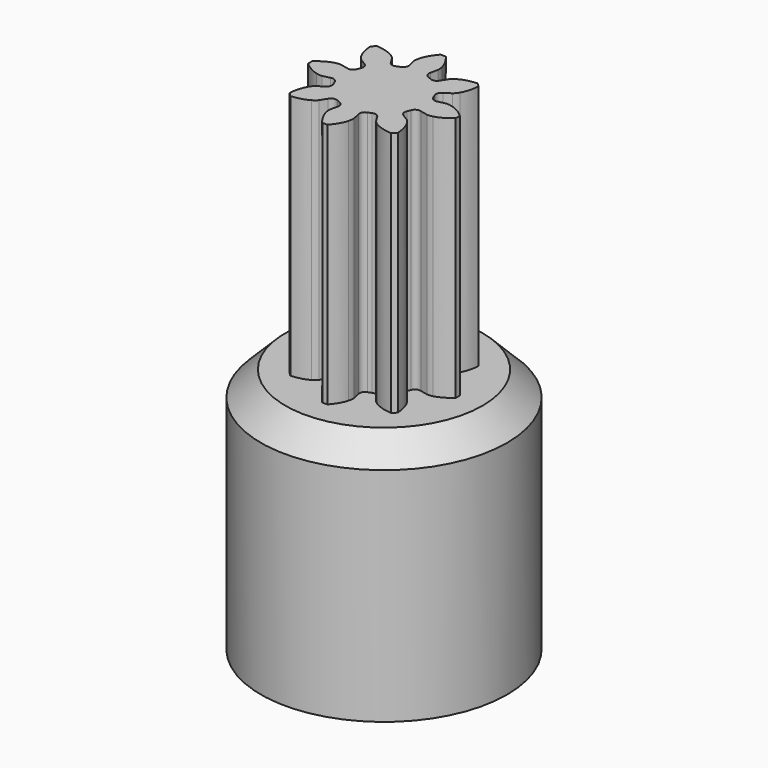
from build123d import *

# Parameters (mm, degrees)
PAD_DEPTH    = 10
SKETCH_R     = 5
PAD001_DEPTH = 10
SKETCH001_R  = 1.65
POCKET_DEPTH = 8
SKETCH002_W  = 2.791454
SKETCH002_H  = 0.639378
PAD002_DEPTH = 8
CHAMFER_SIZE = 1


with BuildPart() as part:
    # InvoluteGear → Pad (new body)
    with BuildSketch(Plane.XY):
        with BuildLine():
            Line((1.830107, -0.421419), (2.130099, -0.489763))
            add(Edge.make_bspline(
                [(2.130099, -0.489763), (2.15653, -0.493189), (2.235461, -0.498412), (2.370333, -0.46428)],
                knots=[0, 0, 0, 0, 1, 1, 1, 1], degree=3))
            add(Edge.make_bspline(
                [(2.370333, -0.46428), (2.529198, -0.422079), (2.750451, -0.325251), (2.99948, -0.107676)],
                knots=[0, 0, 0, 0, 1, 1, 1, 1], degree=3))
            ThreePointArc((2.99948, -0.107676), (3.000707, 0.000386), (2.99804, 0.108423))
            add(Edge.make_bspline(
                [(2.99804, 0.108423), (2.750451, 0.325251), (2.529198, 0.422079), (2.370333, 0.46428)],
                knots=[0, 0, 0, 0, 1, 1, 1, 1], degree=3))
            add(Edge.make_bspline(
                [(2.370333, 0.46428), (2.235461, 0.498412), (2.15653, 0.493189), (2.130099, 0.489763)],
                knots=[0, 0, 0, 0, 1, 1, 1, 1], degree=3))
            Line((2.130099, 0.489763), (1.830107, 0.421419))
            ThreePointArc((1.830107, 0.421419), (1.663196, 0.436353), (1.551577, 0.561345))
            ThreePointArc((1.551577, 0.561345), (1.524401, 0.631428), (1.494062, 0.7002))
            ThreePointArc((1.494062, 0.7002), (1.484605, 0.86751), (1.592069, 0.996093))
            Line((1.592069, 0.996093), (1.852522, 1.159893))
            add(Edge.make_bspline(
                [(1.852522, 1.159893), (1.873635, 1.17616), (1.93314, 1.228279), (2.004375, 1.347783)],
                knots=[0, 0, 0, 0, 1, 1, 1, 1], degree=3))
            add(Edge.make_bspline(
                [(2.004375, 1.347783), (2.086868, 1.489958), (2.17485, 1.714876), (2.197091, 2.044814)],
                knots=[0, 0, 0, 0, 1, 1, 1, 1], degree=3))
            ThreePointArc((2.197091, 2.044814), (2.121547, 2.122093), (2.043268, 2.196601))
            add(Edge.make_bspline(
                [(2.043268, 2.196601), (1.714876, 2.17485), (1.489958, 2.086868), (1.347783, 2.004375)],
                knots=[0, 0, 0, 0, 1, 1, 1, 1], degree=3))
            add(Edge.make_bspline(
                [(1.347783, 2.004375), (1.228279, 1.93314), (1.17616, 1.873635), (1.159893, 1.852522)],
                knots=[0, 0, 0, 0, 1, 1, 1, 1], degree=3))
            Line((1.159893, 1.852522), (0.996093, 1.592069))
            ThreePointArc((0.996093, 1.592069), (0.86751, 1.484605), (0.7002, 1.494062))
            ThreePointArc((0.7002, 1.494062), (0.631428, 1.524401), (0.561345, 1.551577))
            ThreePointArc((0.561345, 1.551577), (0.436353, 1.663196), (0.421419, 1.830107))
            Line((0.421419, 1.830107), (0.489763, 2.130099))
            add(Edge.make_bspline(
                [(0.489763, 2.130099), (0.493189, 2.15653), (0.498412, 2.235461), (0.46428, 2.370333)],
                knots=[0, 0, 0, 0, 1, 1, 1, 1], degree=3))
            add(Edge.make_bspline(
                [(0.46428, 2.370333), (0.422079, 2.529198), (0.325251, 2.750451), (0.107676, 2.99948)],
                knots=[0, 0, 0, 0, 1, 1, 1, 1], degree=3))
            ThreePointArc((0.107676, 2.99948), (-0.000386, 3.000707), (-0.108423, 2.99804))
            add(Edge.make_bspline(
                [(-0.108423, 2.99804), (-0.325251, 2.750451), (-0.422079, 2.529198), (-0.46428, 2.370333)],
                knots=[0, 0, 0, 0, 1, 1, 1, 1], degree=3))
            add(Edge.make_bspline(
                [(-0.46428, 2.370333), (-0.498412, 2.235461), (-0.493189, 2.15653), (-0.489763, 2.130099)],
                knots=[0, 0, 0, 0, 1, 1, 1, 1], degree=3))
            Line((-0.489763, 2.130099), (-0.421419, 1.830107))
            ThreePointArc((-0.421419, 1.830107), (-0.436353, 1.663196), (-0.561345, 1.551577))
            ThreePointArc((-0.561345, 1.551577), (-0.631428, 1.524401), (-0.7002, 1.494062))
            ThreePointArc((-0.7002, 1.494062), (-0.86751, 1.484605), (-0.996093, 1.592069))
            Line((-0.996093, 1.592069), (-1.159893, 1.852522))
            add(Edge.make_bspline(
                [(-1.159893, 1.852522), (-1.17616, 1.873635), (-1.228279, 1.93314), (-1.347783, 2.004375)],
                knots=[0, 0, 0, 0, 1, 1, 1, 1], degree=3))
            add(Edge.make_bspline(
                [(-1.347783, 2.004375), (-1.489958, 2.086868), (-1.714876, 2.17485), (-2.044814, 2.197091)],
                knots=[0, 0, 0, 0, 1, 1, 1, 1], degree=3))
            ThreePointArc((-2.044814, 2.197091), (-2.122093, 2.121547), (-2.196601, 2.043268))
            add(Edge.make_bspline(
                [(-2.196601, 2.043268), (-2.17485, 1.714876), (-2.086868, 1.489958), (-2.004375, 1.347783)],
                knots=[0, 0, 0, 0, 1, 1, 1, 1], degree=3))
            add(Edge.make_bspline(
                [(-2.004375, 1.347783), (-1.93314, 1.228279), (-1.873635, 1.17616), (-1.852522, 1.159893)],
                knots=[0, 0, 0, 0, 1, 1, 1, 1], degree=3))
            Line((-1.852522, 1.159893), (-1.592069, 0.996093))
            ThreePointArc((-1.592069, 0.996093), (-1.484605, 0.86751), (-1.494062, 0.7002))
            ThreePointArc((-1.494062, 0.7002), (-1.524401, 0.631428), (-1.551577, 0.561345))
            ThreePointArc((-1.551577, 0.561345), (-1.663196, 0.436353), (-1.830107, 0.421419))
            Line((-1.830107, 0.421419), (-2.130099, 0.489763))
            add(Edge.make_bspline(
                [(-2.130099, 0.489763), (-2.15653, 0.493189), (-2.235461, 0.498412), (-2.370333, 0.46428)],
                knots=[0, 0, 0, 0, 1, 1, 1, 1], degree=3))
            add(Edge.make_bspline(
                [(-2.370333, 0.46428), (-2.529198, 0.422079), (-2.750451, 0.325251), (-2.99948, 0.107676)],
                knots=[0, 0, 0, 0, 1, 1, 1, 1], degree=3))
            ThreePointArc((-2.99948, 0.107676), (-3.000707, -0.000386), (-2.99804, -0.108423))
            add(Edge.make_bspline(
                [(-2.99804, -0.108423), (-2.750451, -0.325251), (-2.529198, -0.422079), (-2.370333, -0.46428)],
                knots=[0, 0, 0, 0, 1, 1, 1, 1], degree=3))
            add(Edge.make_bspline(
                [(-2.370333, -0.46428), (-2.235461, -0.498412), (-2.15653, -0.493189), (-2.130099, -0.489763)],
                knots=[0, 0, 0, 0, 1, 1, 1, 1], degree=3))
            Line((-2.130099, -0.489763), (-1.830107, -0.421419))
            ThreePointArc((-1.830107, -0.421419), (-1.663196, -0.436353), (-1.551577, -0.561345))
            ThreePointArc((-1.551577, -0.561345), (-1.524401, -0.631428), (-1.494062, -0.7002))
            ThreePointArc((-1.494062, -0.7002), (-1.484605, -0.86751), (-1.592069, -0.996093))
            Line((-1.592069, -0.996093), (-1.852522, -1.159893))
            add(Edge.make_bspline(
                [(-1.852522, -1.159893), (-1.873635, -1.17616), (-1.93314, -1.228279), (-2.004375, -1.347783)],
                knots=[0, 0, 0, 0, 1, 1, 1, 1], degree=3))
            add(Edge.make_bspline(
                [(-2.004375, -1.347783), (-2.086868, -1.489958), (-2.17485, -1.714876), (-2.197091, -2.044814)],
                knots=[0, 0, 0, 0, 1, 1, 1, 1], degree=3))
            ThreePointArc((-2.197091, -2.044814), (-2.121547, -2.122093), (-2.043268, -2.196601))
            add(Edge.make_bspline(
                [(-2.043268, -2.196601), (-1.714876, -2.17485), (-1.489958, -2.086868), (-1.347783, -2.004375)],
                knots=[0, 0, 0, 0, 1, 1, 1, 1], degree=3))
            add(Edge.make_bspline(
                [(-1.347783, -2.004375), (-1.228279, -1.93314), (-1.17616, -1.873635), (-1.159893, -1.852522)],
                knots=[0, 0, 0, 0, 1, 1, 1, 1], degree=3))
            Line((-1.159893, -1.852522), (-0.996093, -1.592069))
            ThreePointArc((-0.996093, -1.592069), (-0.86751, -1.484605), (-0.7002, -1.494062))
            ThreePointArc((-0.7002, -1.494062), (-0.631428, -1.524401), (-0.561345, -1.551577))
            ThreePointArc((-0.561345, -1.551577), (-0.436353, -1.663196), (-0.421419, -1.830107))
            Line((-0.421419, -1.830107), (-0.489763, -2.130099))
            add(Edge.make_bspline(
                [(-0.489763, -2.130099), (-0.493189, -2.15653), (-0.498412, -2.235461), (-0.46428, -2.370333)],
                knots=[0, 0, 0, 0, 1, 1, 1, 1], degree=3))
            add(Edge.make_bspline(
                [(-0.46428, -2.370333), (-0.422079, -2.529198), (-0.325251, -2.750451), (-0.107676, -2.99948)],
                knots=[0, 0, 0, 0, 1, 1, 1, 1], degree=3))
            ThreePointArc((-0.107676, -2.99948), (0.000386, -3.000707), (0.108423, -2.99804))
            add(Edge.make_bspline(
                [(0.108423, -2.99804), (0.325251, -2.750451), (0.422079, -2.529198), (0.46428, -2.370333)],
                knots=[0, 0, 0, 0, 1, 1, 1, 1], degree=3))
            add(Edge.make_bspline(
                [(0.46428, -2.370333), (0.498412, -2.235461), (0.493189, -2.15653), (0.489763, -2.130099)],
                knots=[0, 0, 0, 0, 1, 1, 1, 1], degree=3))
            Line((0.489763, -2.130099), (0.421419, -1.830107))
            ThreePointArc((0.421419, -1.830107), (0.436353, -1.663196), (0.561345, -1.551577))
            ThreePointArc((0.561345, -1.551577), (0.631428, -1.524401), (0.7002, -1.494062))
            ThreePointArc((0.7002, -1.494062), (0.86751, -1.484605), (0.996093, -1.592069))
            Line((0.996093, -1.592069), (1.159893, -1.852522))
            add(Edge.make_bspline(
                [(1.159893, -1.852522), (1.17616, -1.873635), (1.228279, -1.93314), (1.347783, -2.004375)],
                knots=[0, 0, 0, 0, 1, 1, 1, 1], degree=3))
            add(Edge.make_bspline(
                [(1.347783, -2.004375), (1.489958, -2.086868), (1.714876, -2.17485), (2.044814, -2.197091)],
                knots=[0, 0, 0, 0, 1, 1, 1, 1], degree=3))
            ThreePointArc((2.044814, -2.197091), (2.122093, -2.121547), (2.196601, -2.043268))
            add(Edge.make_bspline(
                [(2.196601, -2.043268), (2.17485, -1.714876), (2.086868, -1.489958), (2.004375, -1.347783)],
                knots=[0, 0, 0, 0, 1, 1, 1, 1], degree=3))
            add(Edge.make_bspline(
                [(2.004375, -1.347783), (1.93314, -1.228279), (1.873635, -1.17616), (1.852522, -1.159893)],
                knots=[0, 0, 0, 0, 1, 1, 1, 1], degree=3))
            Line((1.852522, -1.159893), (1.592069, -0.996093))
            ThreePointArc((1.592069, -0.996093), (1.484605, -0.86751), (1.494062, -0.7002))
            ThreePointArc((1.494062, -0.7002), (1.524401, -0.631428), (1.551577, -0.561345))
            ThreePointArc((1.551577, -0.561345), (1.663196, -0.436353), (1.830107, -0.421419))
        make_face()
    extrude(amount=PAD_DEPTH)

    # Sketch (on Face81 of Pad) → Pad001 (join)
    with BuildSketch(Plane(origin=(0, 0, 0), x_dir=(1, 0, 0), z_dir=(0, 0, -1))):
        Circle(SKETCH_R)
    extrude(amount=PAD001_DEPTH)

    # Sketch001 (on Face84 of Pad001) → Pocket (cut)
    with BuildSketch(Plane(origin=(0, 0, -10), x_dir=(1, 0, 0), z_dir=(0, 0, -1))):
        Circle(SKETCH001_R)
    extrude(amount=-POCKET_DEPTH, mode=Mode.SUBTRACT)

    # Sketch002 (on Face86 of Pocket) → Pad002 (join)
    with BuildSketch(Plane(origin=(0, 0, -2), x_dir=(1, 0, 0), z_dir=(0, 0, -1))):
        with Locations((0.067354, 1.419689)):
            Rectangle(SKETCH002_W, SKETCH002_H)
    extrude(amount=PAD002_DEPTH)

    # Chamfer
    chamfer_edges = [part.edges().sort_by_distance(p)[0] for p in [
        (-5, 0, 0),
    ]]
    chamfer(chamfer_edges, length=CHAMFER_SIZE)


solid = part.part
